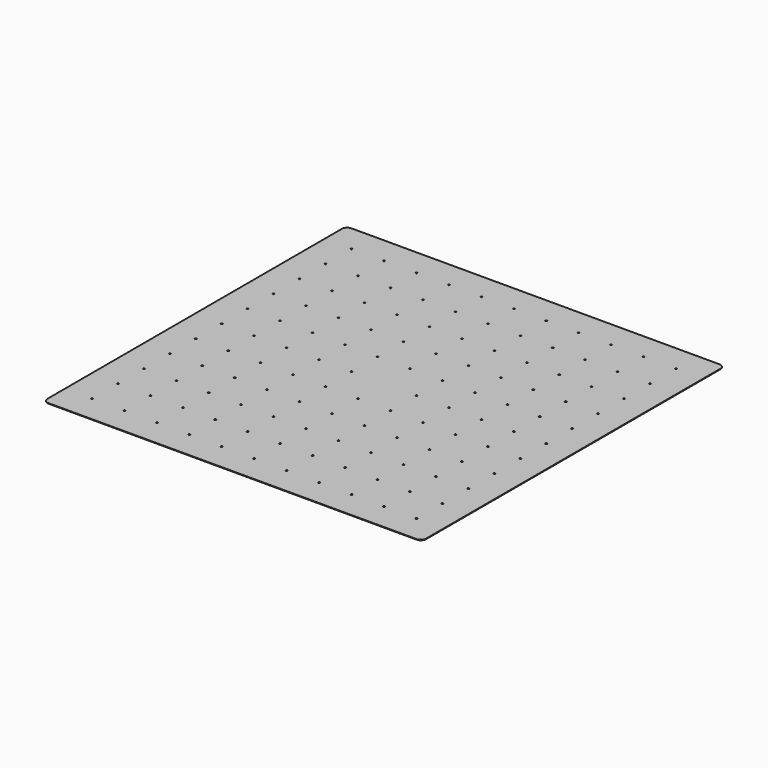
from build123d import *

# Parameters (mm, degrees)
F0_R     = 0.75
F1_DEPTH = 0.5
F2_W     = 7.084715
F2_H     = 7.033198
F3_DEPTH = 0.5


with BuildPart() as f1:
    # F0 (on Top) → F1 (new body)
    with BuildSketch(Plane.XY):
        with BuildLine():
            ThreePointArc((-175, -170), (-173.535534, -173.535534), (-170, -175))
            Line((-170, -175), (170, -175))
            ThreePointArc((170, -175), (173.535534, -173.535534), (175, -170))
            Line((175, -170), (175, 170))
            ThreePointArc((175, 170), (173.535534, 173.535534), (170, 175))
            Line((170, 175), (-170, 175))
            ThreePointArc((-170, 175), (-173.535534, 173.535534), (-175, 170))
            Line((-175, 170), (-175, -170))
        make_face()
        with Locations((-150, -150)):
            Circle(F0_R, mode=Mode.SUBTRACT)
        with Locations((-120, -150)):
            Circle(F0_R, mode=Mode.SUBTRACT)
        with Locations((-90, -150)):
            Circle(F0_R, mode=Mode.SUBTRACT)
        with Locations((-150, -120)):
            Circle(F0_R, mode=Mode.SUBTRACT)
        with Locations((-150, -90)):
            Circle(F0_R, mode=Mode.SUBTRACT)
        with Locations((-120, -120)):
            Circle(F0_R, mode=Mode.SUBTRACT)
        with Locations((-90, -120)):
            Circle(F0_R, mode=Mode.SUBTRACT)
        with Locations((-120, -90)):
            Circle(F0_R, mode=Mode.SUBTRACT)
        with Locations((-90, -90)):
            Circle(F0_R, mode=Mode.SUBTRACT)
        with Locations((-60, -150)):
            Circle(F0_R, mode=Mode.SUBTRACT)
        with Locations((-30, -150)):
            Circle(F0_R, mode=Mode.SUBTRACT)
        with Locations((-60, -120)):
            Circle(F0_R, mode=Mode.SUBTRACT)
        with Locations((-60, -90)):
            Circle(F0_R, mode=Mode.SUBTRACT)
        with Locations((-30, -120)):
            Circle(F0_R, mode=Mode.SUBTRACT)
        with Locations((-30, -90)):
            Circle(F0_R, mode=Mode.SUBTRACT)
        with Locations((-150, -60)):
            Circle(F0_R, mode=Mode.SUBTRACT)
        with Locations((-120, -60)):
            Circle(F0_R, mode=Mode.SUBTRACT)
        with Locations((-90, -60)):
            Circle(F0_R, mode=Mode.SUBTRACT)
        with Locations((-150, -30)):
            Circle(F0_R, mode=Mode.SUBTRACT)
        with Locations((-120, -30)):
            Circle(F0_R, mode=Mode.SUBTRACT)
        with Locations((-90, -30)):
            Circle(F0_R, mode=Mode.SUBTRACT)
        with Locations((-60, -60)):
            Circle(F0_R, mode=Mode.SUBTRACT)
        with Locations((-30, -60)):
            Circle(F0_R, mode=Mode.SUBTRACT)
        with Locations((-60, -30)):
            Circle(F0_R, mode=Mode.SUBTRACT)
        with Locations((-30, -30)):
            Circle(F0_R, mode=Mode.SUBTRACT)
        with Locations((0, -150)):
            Circle(F0_R, mode=Mode.SUBTRACT)
        with Locations((30, -150)):
            Circle(F0_R, mode=Mode.SUBTRACT)
        with Locations((60, -150)):
            Circle(F0_R, mode=Mode.SUBTRACT)
        with Locations((0, -120)):
            Circle(F0_R, mode=Mode.SUBTRACT)
        with Locations((30, -120)):
            Circle(F0_R, mode=Mode.SUBTRACT)
        with Locations((0, -90)):
            Circle(F0_R, mode=Mode.SUBTRACT)
        with Locations((30, -90)):
            Circle(F0_R, mode=Mode.SUBTRACT)
        with Locations((60, -120)):
            Circle(F0_R, mode=Mode.SUBTRACT)
        with Locations((60, -90)):
            Circle(F0_R, mode=Mode.SUBTRACT)
        with Locations((90, -150)):
            Circle(F0_R, mode=Mode.SUBTRACT)
        with Locations((120, -150)):
            Circle(F0_R, mode=Mode.SUBTRACT)
        with Locations((150, -150)):
            Circle(F0_R, mode=Mode.SUBTRACT)
        with Locations((90, -120)):
            Circle(F0_R, mode=Mode.SUBTRACT)
        with Locations((120, -120)):
            Circle(F0_R, mode=Mode.SUBTRACT)
        with Locations((90, -90)):
            Circle(F0_R, mode=Mode.SUBTRACT)
        with Locations((120, -90)):
            Circle(F0_R, mode=Mode.SUBTRACT)
        with Locations((150, -120)):
            Circle(F0_R, mode=Mode.SUBTRACT)
        with Locations((150, -90)):
            Circle(F0_R, mode=Mode.SUBTRACT)
        with Locations((0, -60)):
            Circle(F0_R, mode=Mode.SUBTRACT)
        with Locations((30, -60)):
            Circle(F0_R, mode=Mode.SUBTRACT)
        with Locations((60, -60)):
            Circle(F0_R, mode=Mode.SUBTRACT)
        with Locations((0, -30)):
            Circle(F0_R, mode=Mode.SUBTRACT)
        with Locations((30, -30)):
            Circle(F0_R, mode=Mode.SUBTRACT)
        with Locations((60, -30)):
            Circle(F0_R, mode=Mode.SUBTRACT)
        with Locations((90, -60)):
            Circle(F0_R, mode=Mode.SUBTRACT)
        with Locations((120, -60)):
            Circle(F0_R, mode=Mode.SUBTRACT)
        with Locations((150, -60)):
            Circle(F0_R, mode=Mode.SUBTRACT)
        with Locations((90, -30)):
            Circle(F0_R, mode=Mode.SUBTRACT)
        with Locations((120, -30)):
            Circle(F0_R, mode=Mode.SUBTRACT)
        with Locations((150, -30)):
            Circle(F0_R, mode=Mode.SUBTRACT)
        with Locations((-150, 0)):
            Circle(F0_R, mode=Mode.SUBTRACT)
        with Locations((-150, 30)):
            Circle(F0_R, mode=Mode.SUBTRACT)
        with Locations((-120, 0)):
            Circle(F0_R, mode=Mode.SUBTRACT)
        with Locations((-90, 0)):
            Circle(F0_R, mode=Mode.SUBTRACT)
        with Locations((-120, 30)):
            Circle(F0_R, mode=Mode.SUBTRACT)
        with Locations((-90, 30)):
            Circle(F0_R, mode=Mode.SUBTRACT)
        with Locations((-150, 60)):
            Circle(F0_R, mode=Mode.SUBTRACT)
        with Locations((-120, 60)):
            Circle(F0_R, mode=Mode.SUBTRACT)
        with Locations((-90, 60)):
            Circle(F0_R, mode=Mode.SUBTRACT)
        with Locations((-60, 0)):
            Circle(F0_R, mode=Mode.SUBTRACT)
        with Locations((-60, 30)):
            Circle(F0_R, mode=Mode.SUBTRACT)
        with Locations((-30, 0)):
            Circle(F0_R, mode=Mode.SUBTRACT)
        with Locations((-30, 30)):
            Circle(F0_R, mode=Mode.SUBTRACT)
        with Locations((-60, 60)):
            Circle(F0_R, mode=Mode.SUBTRACT)
        with Locations((-30, 60)):
            Circle(F0_R, mode=Mode.SUBTRACT)
        with Locations((-150, 90)):
            Circle(F0_R, mode=Mode.SUBTRACT)
        with Locations((-150, 120)):
            Circle(F0_R, mode=Mode.SUBTRACT)
        with Locations((-120, 90)):
            Circle(F0_R, mode=Mode.SUBTRACT)
        with Locations((-90, 90)):
            Circle(F0_R, mode=Mode.SUBTRACT)
        with Locations((-120, 120)):
            Circle(F0_R, mode=Mode.SUBTRACT)
        with Locations((-90, 120)):
            Circle(F0_R, mode=Mode.SUBTRACT)
        with Locations((-150, 150)):
            Circle(F0_R, mode=Mode.SUBTRACT)
        with Locations((-120, 150)):
            Circle(F0_R, mode=Mode.SUBTRACT)
        with Locations((-90, 150)):
            Circle(F0_R, mode=Mode.SUBTRACT)
        with Locations((-60, 90)):
            Circle(F0_R, mode=Mode.SUBTRACT)
        with Locations((-60, 120)):
            Circle(F0_R, mode=Mode.SUBTRACT)
        with Locations((-30, 90)):
            Circle(F0_R, mode=Mode.SUBTRACT)
        with Locations((-30, 120)):
            Circle(F0_R, mode=Mode.SUBTRACT)
        with Locations((-60, 150)):
            Circle(F0_R, mode=Mode.SUBTRACT)
        with Locations((-30, 150)):
            Circle(F0_R, mode=Mode.SUBTRACT)
        Circle(F0_R, mode=Mode.SUBTRACT)
        with Locations((30, 0)):
            Circle(F0_R, mode=Mode.SUBTRACT)
        with Locations((0, 30)):
            Circle(F0_R, mode=Mode.SUBTRACT)
        with Locations((30, 30)):
            Circle(F0_R, mode=Mode.SUBTRACT)
        with Locations((60, 0)):
            Circle(F0_R, mode=Mode.SUBTRACT)
        with Locations((60, 30)):
            Circle(F0_R, mode=Mode.SUBTRACT)
        with Locations((0, 60)):
            Circle(F0_R, mode=Mode.SUBTRACT)
        with Locations((30, 60)):
            Circle(F0_R, mode=Mode.SUBTRACT)
        with Locations((60, 60)):
            Circle(F0_R, mode=Mode.SUBTRACT)
        with Locations((90, 0)):
            Circle(F0_R, mode=Mode.SUBTRACT)
        with Locations((120, 0)):
            Circle(F0_R, mode=Mode.SUBTRACT)
        with Locations((90, 30)):
            Circle(F0_R, mode=Mode.SUBTRACT)
        with Locations((120, 30)):
            Circle(F0_R, mode=Mode.SUBTRACT)
        with Locations((150, 0)):
            Circle(F0_R, mode=Mode.SUBTRACT)
        with Locations((150, 30)):
            Circle(F0_R, mode=Mode.SUBTRACT)
        with Locations((90, 60)):
            Circle(F0_R, mode=Mode.SUBTRACT)
        with Locations((120, 60)):
            Circle(F0_R, mode=Mode.SUBTRACT)
        with Locations((150, 60)):
            Circle(F0_R, mode=Mode.SUBTRACT)
        with Locations((0, 90)):
            Circle(F0_R, mode=Mode.SUBTRACT)
        with Locations((30, 90)):
            Circle(F0_R, mode=Mode.SUBTRACT)
        with Locations((0, 120)):
            Circle(F0_R, mode=Mode.SUBTRACT)
        with Locations((30, 120)):
            Circle(F0_R, mode=Mode.SUBTRACT)
        with Locations((60, 90)):
            Circle(F0_R, mode=Mode.SUBTRACT)
        with Locations((60, 120)):
            Circle(F0_R, mode=Mode.SUBTRACT)
        with Locations((0, 150)):
            Circle(F0_R, mode=Mode.SUBTRACT)
        with Locations((30, 150)):
            Circle(F0_R, mode=Mode.SUBTRACT)
        with Locations((60, 150)):
            Circle(F0_R, mode=Mode.SUBTRACT)
        with Locations((90, 90)):
            Circle(F0_R, mode=Mode.SUBTRACT)
        with Locations((120, 90)):
            Circle(F0_R, mode=Mode.SUBTRACT)
        with Locations((90, 120)):
            Circle(F0_R, mode=Mode.SUBTRACT)
        with Locations((120, 120)):
            Circle(F0_R, mode=Mode.SUBTRACT)
        with Locations((150, 90)):
            Circle(F0_R, mode=Mode.SUBTRACT)
        with Locations((150, 120)):
            Circle(F0_R, mode=Mode.SUBTRACT)
        with Locations((90, 150)):
            Circle(F0_R, mode=Mode.SUBTRACT)
        with Locations((120, 150)):
            Circle(F0_R, mode=Mode.SUBTRACT)
        with Locations((150, 150)):
            Circle(F0_R, mode=Mode.SUBTRACT)
    extrude(amount=F1_DEPTH)

    # F2 (on face) → F3 (join)
    with BuildSketch(Plane(origin=(0, 0, 0), x_dir=(1, 0, 0), z_dir=(0, 0, -1))):
        with Locations((-2.000525, -1.994968)):
            Rectangle(F2_W, F2_H)
    extrude(amount=-F3_DEPTH)


solid = f1.part
